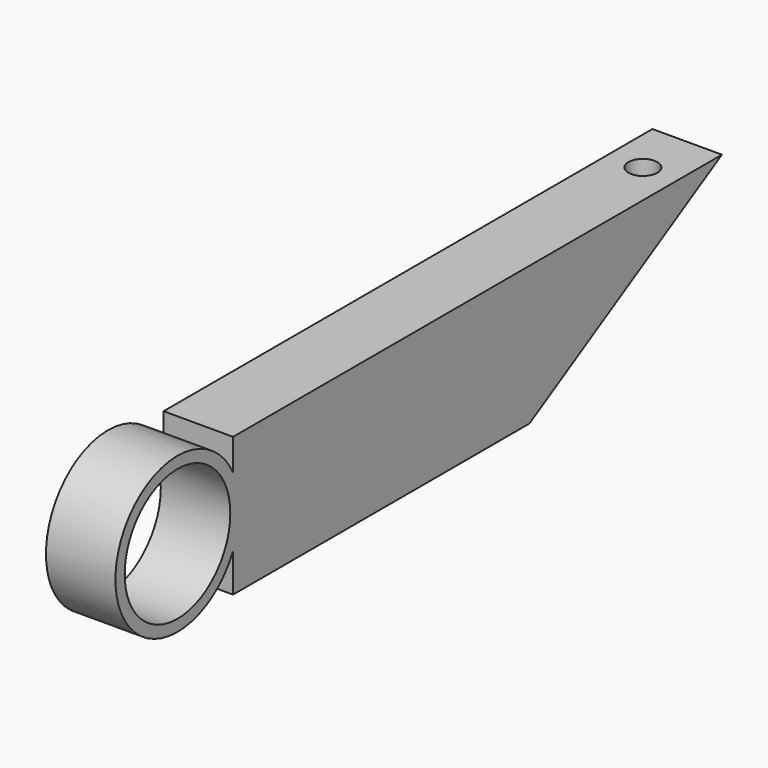
from build123d import *

# Parameters (mm, degrees)
F0_W     = 19.05
F0_H     = 38.1
F1_DEPTH = 127
F2_R     = 18.0975
F3_DEPTH = 19.05
F5_R     = 3.96875
F6_DEPTH = 39.371
F8_DEPTH = 19.051


with BuildPart() as f1:
    # F0 (on Front) → F1 (new body, symmetric)
    with BuildSketch(Plane.XZ):
        with Locations((9.525, 19.05)):
            Rectangle(F0_W, F0_H)
    extrude(amount=F1_DEPTH, both=True)


with BuildPart() as f3:
    # F2 (on face) → F3 (new body)
    with BuildSketch(Plane.YZ.offset(19.05)):
        with BuildLine():
            Line((-127, 10.535887), (-127, 29.469113))
            ThreePointArc((-127, 29.469113), (-167.3225, 20.0025), (-127, 10.535887))
        make_face()
        with Locations((-146.05, 20.0025)):
            Circle(F2_R, mode=Mode.SUBTRACT)
    extrude(amount=-F3_DEPTH)

    # F4: union F1
    add(f1.part)

    # F5 (on face) → F6 (cut, through all)
    with BuildSketch(Plane.XY.offset(38.1)):
        with Locations((9.525, 25.4)):
            Circle(F5_R)
    extrude(amount=-F6_DEPTH, mode=Mode.SUBTRACT)

    # F7 (on face) → F8 (cut, through all)
    with BuildSketch(Plane(origin=(0, 0, 0), x_dir=(0, -1, 0), z_dir=(-1, 0, 0))):
        Polygon((-127, 0), (25.4, 0), (-40.591136, 38.1), (-127, 38.1), align=None)
    extrude(amount=-F8_DEPTH, mode=Mode.SUBTRACT)


solid = f3.part
